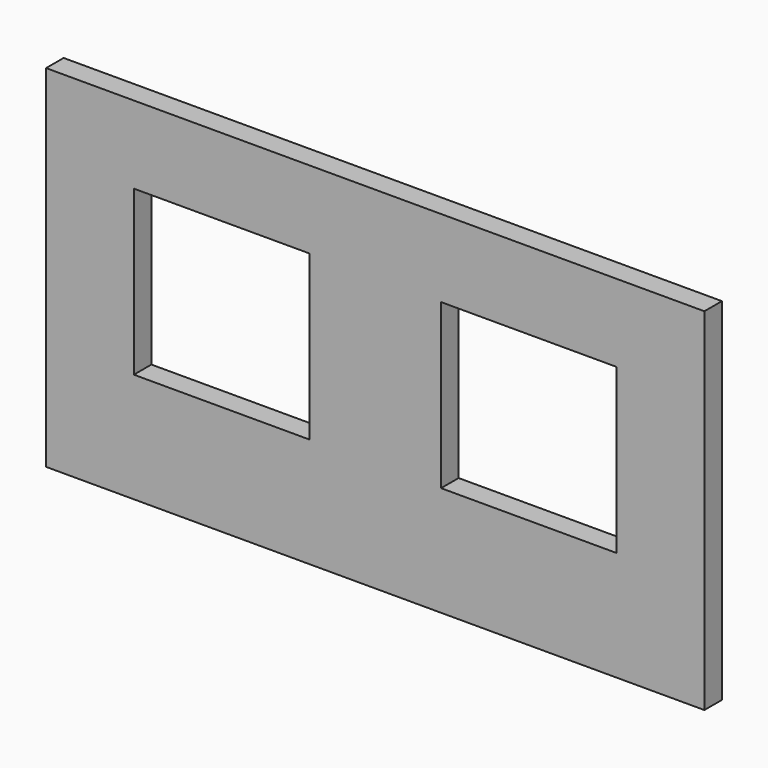
from build123d import *

# Parameters (mm, degrees)
F0_W     = 381
F0_H     = 203.2
F1_DEPTH = 12.7
F3_W     = 101.6
F3_H     = 94.813248
F3_H_2   = 94.8182
F4_DEPTH = 12.701


with BuildPart() as f1:
    # F0 (on Front) → F1 (new body)
    with BuildSketch(Plane.XZ):
        with Locations((51.462456, -5.513912)):
            Rectangle(F0_W, F0_H)
    extrude(amount=F1_DEPTH)

    # F3 (on face) → F4 (cut, through all)
    with BuildSketch(Plane.XZ.offset(12.7)):
        with Locations((-37.437544, 3.792712)):
            Rectangle(F3_W, F3_H)
        with Locations((140.362456, 3.795188)):
            Rectangle(F3_W, F3_H_2)
    extrude(amount=-F4_DEPTH, mode=Mode.SUBTRACT)


solid = f1.part
